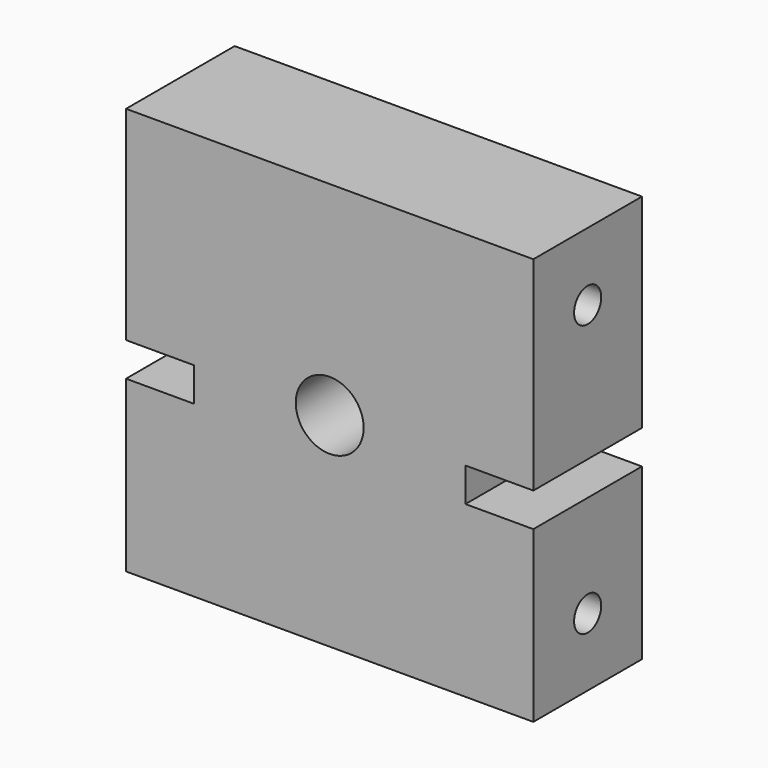
from build123d import *

# Parameters (mm, degrees)
F0_W     = 38.1
F0_H     = 38.1
F6_DEPTH = 6.35
F1_R     = 3.175
F7_DEPTH = 6.35
F2_W     = 6.35
F2_H     = 3.175
F3_W     = 6.35
F3_H     = 3.175
F8_DEPTH = 6.35
F4_R     = 1.5875
F5_R     = 1.5875
F9_DEPTH = 19.05


with BuildPart() as f6:
    # F0 (on Front) → F6 (new body, symmetric)
    with BuildSketch(Plane.XZ):
        Rectangle(F0_W, F0_H)
    extrude(amount=F6_DEPTH, both=True)

    # F1 (on Front) → F7 (cut, symmetric)
    with BuildSketch(Plane.XZ):
        Circle(F1_R)
    extrude(amount=F7_DEPTH, both=True, mode=Mode.SUBTRACT)

    # F2 (on Front) + F3 (on Front) → F8 (cut, symmetric)
    with BuildSketch(Plane.XZ):
        with Locations((-15.875, -1.5875)):
            Rectangle(F2_W, F2_H)
    with BuildSketch(Plane.XZ):
        with Locations((15.875, -1.5875)):
            Rectangle(F3_W, F3_H)
    extrude(amount=F8_DEPTH, both=True, mode=Mode.SUBTRACT)

    # F4 (on Right) + F5 (on Right) → F9 (cut, symmetric)
    with BuildSketch(Plane.YZ):
        with Locations((0, 12.7)):
            Circle(F4_R)
    with BuildSketch(Plane.YZ):
        with Locations((0, -12.7)):
            Circle(F5_R)
    extrude(amount=F9_DEPTH, both=True, mode=Mode.SUBTRACT)


solid = f6.part
